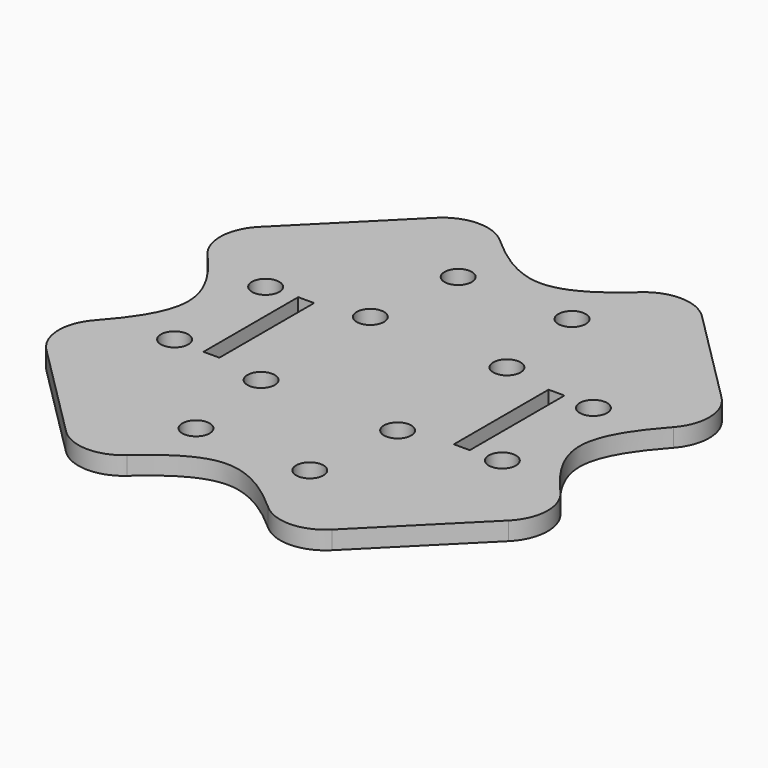
from build123d import *

# Parameters (mm, degrees)
F0_R     = 1.5
F1_DEPTH = 2
F2_R     = 5


with BuildPart() as f1:
    # F0 (on Top) → F1 (new body)
    with BuildSketch(Plane.XY):
        with BuildLine():
            add(Edge.make_bspline(
                [(-13.142859, 26.857141), (-8.951076, 24.20284), (-4.564468, 21.895542), (0, 20)],
                knots=[66.18026, 66.18026, 66.18026, 66.18026, 80.865454, 80.865454, 80.865454, 80.865454], degree=3))
            Line((-13.142859, 26.857141), (-20, 20))
            Line((-20, 20), (-26.857141, 13.142859))
            add(Edge.make_bspline(
                [(-26.857141, 13.142859), (-24.20284, 8.951076), (-21.895542, 4.564468), (-20, 0)],
                knots=[66.18026, 66.18026, 66.18026, 66.18026, 80.865454, 80.865454, 80.865454, 80.865454], degree=3))
            Line((-20, 0), (-14.625, 0))
            Line((-14.625, 0), (-14.625, 6.5))
            Line((-14.625, 6.5), (-12.875, 6.5))
            Line((-12.875, 6.5), (-12.875, 0))
            Line((-12.875, 0), (0, 0))
            Line((0, 0), (0, 20))
        make_face()
        with Locations((-18, 6.25)):
            Circle(F0_R, mode=Mode.SUBTRACT)
        with Locations((-7.5, 7.5)):
            Circle(F0_R, mode=Mode.SUBTRACT)
        with Locations((-6.25, 18)):
            Circle(F0_R, mode=Mode.SUBTRACT)
        with BuildLine():
            Line((-14.625, 0), (-20, 0))
            add(Edge.make_bspline(
                [(-26.854903, -13.145097), (-24.198754, -8.951027), (-21.891877, -4.563394), (-20, 0)],
                knots=[66.166, 66.166, 66.166, 66.166, 80.865454, 80.865454, 80.865454, 80.865454], degree=3))
            Line((-26.854903, -13.145097), (-20, -20))
            Line((-20, -20), (-13.145097, -26.854903))
            add(Edge.make_bspline(
                [(0, -20), (-4.563394, -21.891877), (-8.951027, -24.198754), (-13.145097, -26.854903)],
                knots=[0, 0, 0, 0, 14.699453, 14.699453, 14.699453, 14.699453], degree=3))
            Line((0, -20), (0, 0))
            Line((0, 0), (-12.875, 0))
            Line((-12.875, 0), (-12.875, -6.5))
            Line((-12.875, -6.5), (-14.625, -6.5))
            Line((-14.625, -6.5), (-14.625, 0))
        make_face()
        with Locations((-6.25, -18)):
            Circle(F0_R, mode=Mode.SUBTRACT)
        with Locations((-18, -6.25)):
            Circle(F0_R, mode=Mode.SUBTRACT)
        with Locations((-7.5, -7.5)):
            Circle(F0_R, mode=Mode.SUBTRACT)
        with BuildLine():
            Line((-11.161165, 28.838835), (-13.142859, 26.857141))
            add(Edge.make_bspline(
                [(-13.142859, 26.857141), (-8.951076, 24.20284), (-4.564468, 21.895542), (0, 20)],
                knots=[66.18026, 66.18026, 66.18026, 66.18026, 80.865454, 80.865454, 80.865454, 80.865454], degree=3))
            add(Edge.make_bspline(
                [(13.145097, 26.854903), (8.951027, 24.198754), (4.563394, 21.891877), (0, 20)],
                knots=[66.166, 66.166, 66.166, 66.166, 80.865454, 80.865454, 80.865454, 80.865454], degree=3))
            Line((13.145097, 26.854903), (11.161165, 28.838835))
            add(Edge.make_bspline(
                [(-11.161165, 28.838835), (-7.440777, 25.169417), (0, 17.830583), (7.440777, 25.169417), (11.161165, 28.838835)],
                knots=[0, 0, 0, 0, 13.357773, 26.715546, 26.715546, 26.715546, 26.715546], degree=3))
        make_face()
        with BuildLine():
            add(Edge.make_bspline(
                [(-26.857141, 13.142859), (-24.20284, 8.951076), (-21.895542, 4.564468), (-20, 0)],
                knots=[66.18026, 66.18026, 66.18026, 66.18026, 80.865454, 80.865454, 80.865454, 80.865454], degree=3))
            Line((-26.857141, 13.142859), (-28.838835, 11.161165))
            add(Edge.make_bspline(
                [(-28.838835, -11.161165), (-25.169417, -7.440777), (-17.830583, 0), (-25.169417, 7.440777), (-28.838835, 11.161165)],
                knots=[0, 0, 0, 0, 13.357773, 26.715546, 26.715546, 26.715546, 26.715546], degree=3))
            Line((-28.838835, -11.161165), (-26.854903, -13.145097))
            add(Edge.make_bspline(
                [(-26.854903, -13.145097), (-24.198754, -8.951027), (-21.891877, -4.563394), (-20, 0)],
                knots=[66.166, 66.166, 66.166, 66.166, 80.865454, 80.865454, 80.865454, 80.865454], degree=3))
        make_face()
        with BuildLine():
            Line((28.838835, 11.161165), (26.854903, 13.145097))
            add(Edge.make_bspline(
                [(26.854903, 13.145097), (24.198754, 8.951027), (21.891877, 4.563394), (20, 0)],
                knots=[66.166, 66.166, 66.166, 66.166, 80.865454, 80.865454, 80.865454, 80.865454], degree=3))
            add(Edge.make_bspline(
                [(20, 0), (21.891877, -4.563394), (24.198754, -8.951027), (26.854903, -13.145097)],
                knots=[0, 0, 0, 0, 14.699454, 14.699454, 14.699454, 14.699454], degree=3))
            Line((26.854903, -13.145097), (28.838835, -11.161165))
            add(Edge.make_bspline(
                [(28.838835, 11.161165), (25.169417, 7.440777), (17.830583, 0), (25.169417, -7.440777), (28.838835, -11.161165)],
                knots=[0, 0, 0, 0, 13.357773, 26.715546, 26.715546, 26.715546, 26.715546], degree=3))
        make_face()
        with BuildLine():
            Line((12.875, 0), (0, 0))
            Line((0, 0), (0, -20))
            add(Edge.make_bspline(
                [(0, -20), (4.563394, -21.891877), (8.951027, -24.198754), (13.145097, -26.854903)],
                knots=[0, 0, 0, 0, 14.699453, 14.699453, 14.699453, 14.699453], degree=3))
            Line((13.145097, -26.854903), (20, -20))
            Line((20, -20), (26.854903, -13.145097))
            add(Edge.make_bspline(
                [(20, 0), (21.891877, -4.563394), (24.198754, -8.951027), (26.854903, -13.145097)],
                knots=[0, 0, 0, 0, 14.699454, 14.699454, 14.699454, 14.699454], degree=3))
            Line((20, 0), (14.625, 0))
            Line((14.625, 0), (14.625, -6.5))
            Line((14.625, -6.5), (12.875, -6.5))
            Line((12.875, -6.5), (12.875, 0))
        make_face()
        with Locations((6.25, -18)):
            Circle(F0_R, mode=Mode.SUBTRACT)
        with Locations((7.5, -7.5)):
            Circle(F0_R, mode=Mode.SUBTRACT)
        with Locations((18, -6.25)):
            Circle(F0_R, mode=Mode.SUBTRACT)
        with BuildLine():
            add(Edge.make_bspline(
                [(0, -20), (4.563394, -21.891877), (8.951027, -24.198754), (13.145097, -26.854903)],
                knots=[0, 0, 0, 0, 14.699453, 14.699453, 14.699453, 14.699453], degree=3))
            add(Edge.make_bspline(
                [(0, -20), (-4.563394, -21.891877), (-8.951027, -24.198754), (-13.145097, -26.854903)],
                knots=[0, 0, 0, 0, 14.699453, 14.699453, 14.699453, 14.699453], degree=3))
            Line((-13.145097, -26.854903), (-11.161165, -28.838835))
            add(Edge.make_bspline(
                [(11.161165, -28.838835), (7.440777, -25.169417), (0, -17.830583), (-7.440777, -25.169417), (-11.161165, -28.838835)],
                knots=[0, 0, 0, 0, 13.357773, 26.715546, 26.715546, 26.715546, 26.715546], degree=3))
            Line((11.161165, -28.838835), (13.145097, -26.854903))
        make_face()
        with BuildLine():
            add(Edge.make_bspline(
                [(13.145097, 26.854903), (8.951027, 24.198754), (4.563394, 21.891877), (0, 20)],
                knots=[66.166, 66.166, 66.166, 66.166, 80.865454, 80.865454, 80.865454, 80.865454], degree=3))
            Line((0, 20), (0, 0))
            Line((0, 0), (12.875, 0))
            Line((12.875, 0), (12.875, 6.5))
            Line((12.875, 6.5), (14.625, 6.5))
            Line((14.625, 6.5), (14.625, 0))
            Line((14.625, 0), (20, 0))
            add(Edge.make_bspline(
                [(26.854903, 13.145097), (24.198754, 8.951027), (21.891877, 4.563394), (20, 0)],
                knots=[66.166, 66.166, 66.166, 66.166, 80.865454, 80.865454, 80.865454, 80.865454], degree=3))
            Line((26.854903, 13.145097), (20, 20))
            Line((20, 20), (13.145097, 26.854903))
        make_face()
        with Locations((7.5, 7.5)):
            Circle(F0_R, mode=Mode.SUBTRACT)
        with Locations((18, 6.25)):
            Circle(F0_R, mode=Mode.SUBTRACT)
        with Locations((6.25, 18)):
            Circle(F0_R, mode=Mode.SUBTRACT)
    extrude(amount=F1_DEPTH)

    # F2
    f2_edges = [f1.edges().sort_by_distance(p)[0] for p in [
        (-11.161165, 28.838835, 1),
        (-28.838835, 11.161165, 1),
        (11.161165, 28.838835, 1),
        (28.838835, 11.161165, 1),
        (28.838835, -11.161165, 1),
        (11.161165, -28.838835, 1),
        (-11.161165, -28.838835, 1),
        (-28.838835, -11.161165, 1),
    ]]
    fillet(f2_edges, radius=F2_R)


solid = f1.part
